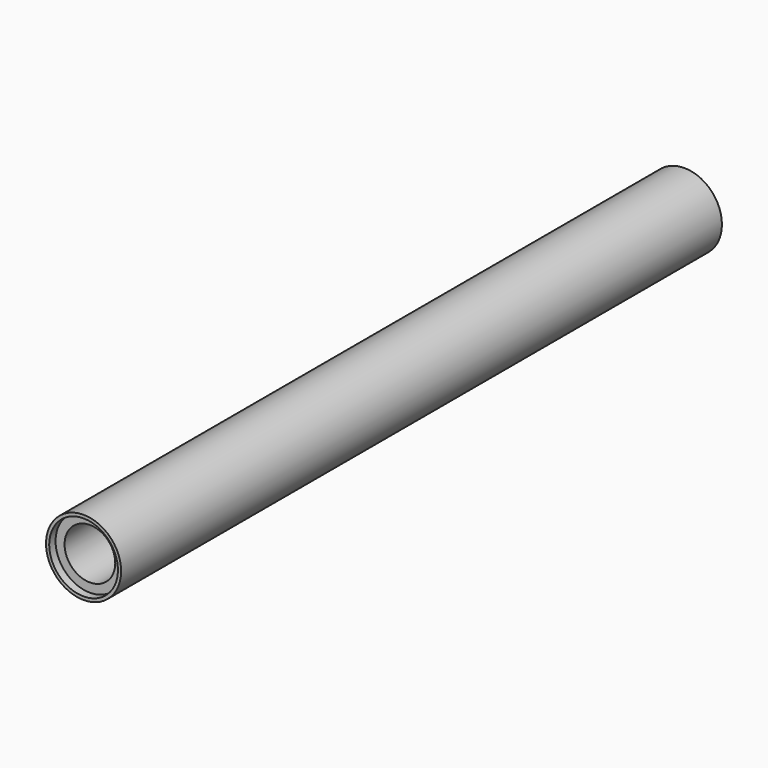
from build123d import *

# Parameters (mm, degrees)
F0_R     = 6
F1_DEPTH = 60
F2_R     = 4.05
F3_DEPTH = 16.002
F4_R     = 0.889
F5_DEPTH = 120.001
F6_W     = 1.651
F6_H     = 1.27


with BuildPart() as f1:
    # F0 (on Front) → F1 (new body, symmetric)
    with BuildSketch(Plane.XZ):
        Circle(F0_R)
    extrude(amount=F1_DEPTH, both=True)

    # F2 (on face) → F3 (cut)
    with BuildSketch(Plane.XZ.offset(60)):
        Circle(F2_R)
    extrude(amount=-F3_DEPTH, mode=Mode.SUBTRACT)

    # F4 (on face) → F5 (cut, through all)
    with BuildSketch(Plane(origin=(0, 60, 0), x_dir=(-1, 0, 0), z_dir=(0, 1, 0))):
        Circle(F4_R)
    extrude(amount=-F5_DEPTH, mode=Mode.SUBTRACT)

    # F6 (on Top) → F7 (revolve, cut)
    with BuildSketch(Plane.XY):
        with Locations((-4.6665, -59.365)):
            Rectangle(F6_W, F6_H)
    revolve(axis=Axis((0, -59.477242, 0), (0, 1, 0)), mode=Mode.SUBTRACT)


solid = f1.part
